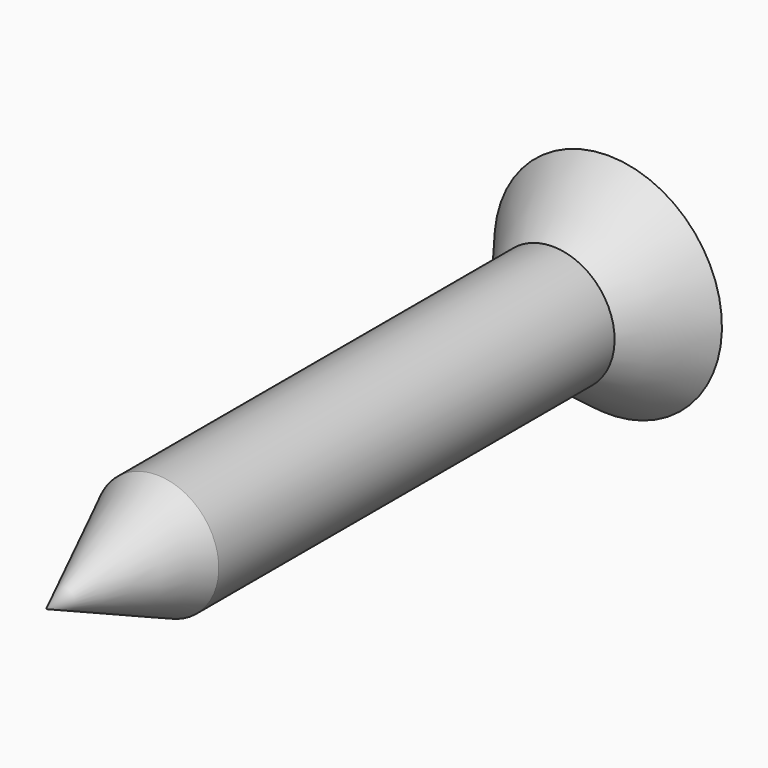
from build123d import *

# Parameters (mm, degrees)
F3_DEPTH = 0.762


with BuildPart() as f1:
    # F0 (on Right) → F1 (revolve)
    with BuildSketch(Plane.YZ):
        Polygon((16.256, 1.5875), (3.556, 1.5875), (0, 0), (18.034, 0), (18.034, 2.921), align=None)
    revolve(axis=Axis((0, 9.017, 0), (0, 1, 0)))

    # F2 (on face) → F3 (cut)
    with BuildSketch(Plane(origin=(0, 18.034, 0), x_dir=(-1, 0, 0), z_dir=(0, 1, 0))):
        Polygon((0.381, 2.159), (-0.381, 2.159), (-0.381, 0.381), (-2.159, 0.381), (-2.159, -0.381), (-0.381, -0.381), (-0.381, -2.159), (0.381, -2.159), (0.381, -0.381), (2.159, -0.381), (2.159, 0.381), (0.381, 0.381), align=None)
    extrude(amount=-F3_DEPTH, mode=Mode.SUBTRACT)


solid = f1.part
